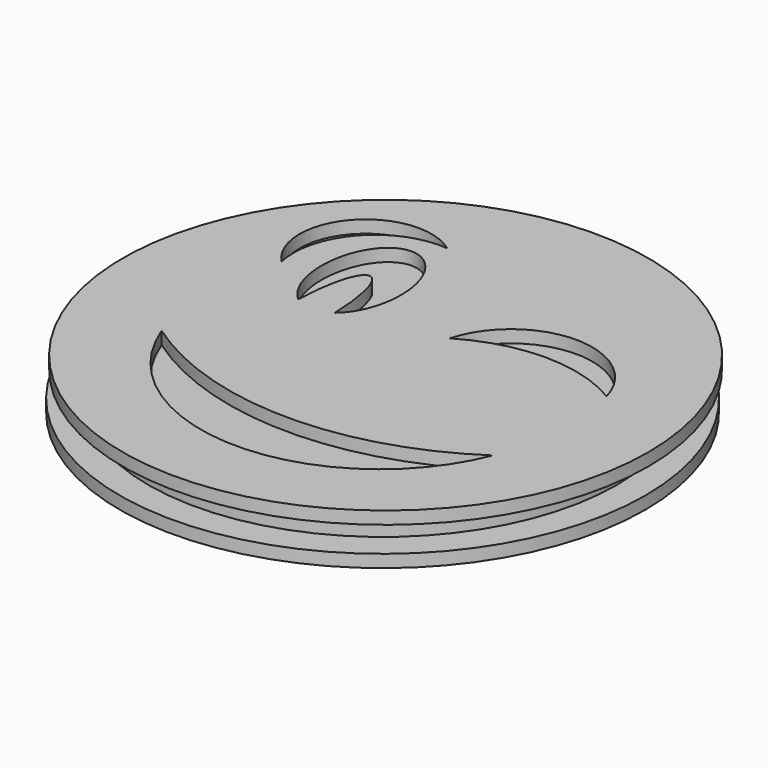
from build123d import *

# Parameters (mm, degrees)
F0_R     = 53.0157982363
F1_DEPTH = 2.54
F2_R     = 47.2560567117
F3_DEPTH = 5.08
F4_R     = 53.0157982363
F5_DEPTH = 2.54


with BuildPart() as f1:
    # F0 (on Top) → F1 (new body)
    with BuildSketch(Plane.XY):
        Circle(F0_R)
        with BuildLine():
            ThreePointArc((34.5963537693, -16.124624759), (0.7195010855, -38.8894264346), (-32.7556952834, -15.5380116776))
            ThreePointArc((-32.7556952834, -15.5380116776), (0.8294682353, -26.2635353639), (34.5963537693, -16.124624759))
        make_face(mode=Mode.SUBTRACT)
        with BuildLine():
            add(Edge.make_bspline(
                [(-15.2761812583, 6.2920888366), (-6.4745691616, 13.4173637556), (-12.7072304958, 25.5387976443), (-18.9398918301, 37.660231533), (-25.1725531643, 25.5387976443), (-31.4052144986, 13.4173637556), (-22.6036024019, 6.2920888366)],
                knots=[0.474035322, 0.474035322, 0.474035322, 2.2524068764, 2.2524068764, 4.0307784308, 4.0307784308, 5.8091499851, 5.8091499851, 5.8091499851], degree=2, weights=[1, 0.6300445274, 1, 0.6300445274, 1, 0.6300445274, 1]))
            add(Edge.make_bspline(
                [(-15.2761812583, 6.2920888366), (-15.5944365201, 19.5747613907), (-18.9398918301, 19.5747613907), (-22.2853471401, 19.5747613907), (-22.6036024019, 6.2920888366)],
                knots=[1.6660710276, 1.6660710276, 1.6660710276, 3.1415926536, 3.1415926536, 4.6171142796, 4.6171142796, 4.6171142796], degree=2, weights=[1, 0.7399765629, 1, 0.7399765629, 1]))
        make_face(mode=Mode.SUBTRACT)
        with BuildLine():
            ThreePointArc((-32.7556952834, 14.6841080859), (-33.0674816797, 32.6505443622), (-15.1981087402, 34.5414578915))
            ThreePointArc((-15.1981087402, 34.5414578915), (-29.0196103006, 29.0714740054), (-32.7556952834, 14.6841080859))
        make_face(mode=Mode.SUBTRACT)
        with BuildLine():
            ThreePointArc((4.2984438121, 10.7904156464), (20.1290514312, 22.8840550051), (35.9596590504, 10.7904156464))
            ThreePointArc((35.9596590504, 10.7904156464), (20.1290514312, 15.1713824312), (4.2984438121, 10.7904156464))
        make_face(mode=Mode.SUBTRACT)
    extrude(amount=F1_DEPTH)


with BuildPart() as f3:
    # F2 (on face) → F3 (new body)
    with BuildSketch(Plane.XY.offset(2.54)):
        Circle(F2_R)
    extrude(amount=F3_DEPTH)


with BuildPart() as f5:
    # F4 (on face) → F5 (new body)
    with BuildSketch(Plane.XY.offset(7.62)):
        with Locations((0.2872720361, 0.3989652069)):
            Circle(F4_R)
        with BuildLine():
            ThreePointArc((34.8836258054, -15.7256595521), (1.0067731216, -38.4904612278), (-32.4684232473, -15.1390464707))
            ThreePointArc((-32.4684232473, -15.1390464707), (1.1167402714, -25.864570157), (34.8836258054, -15.7256595521))
        make_face(mode=Mode.SUBTRACT)
        with BuildLine():
            add(Edge.make_bspline(
                [(-14.9889092222, 6.6910540435), (-6.1872971255, 13.8163289625), (-12.4199584598, 25.9377628512), (-18.652619794, 38.0591967398), (-24.8852811283, 25.9377628512), (-31.1179424625, 13.8163289625), (-22.3163303658, 6.6910540435)],
                knots=[0.474035322, 0.474035322, 0.474035322, 2.2524068764, 2.2524068764, 4.0307784308, 4.0307784308, 5.8091499851, 5.8091499851, 5.8091499851], degree=2, weights=[1, 0.6300445274, 1, 0.6300445274, 1, 0.6300445274, 1]))
            add(Edge.make_bspline(
                [(-14.9889092222, 6.6910540435), (-15.307164484, 19.9737265975), (-18.652619794, 19.9737265975), (-21.998075104, 19.9737265975), (-22.3163303658, 6.6910540435)],
                knots=[1.6660710276, 1.6660710276, 1.6660710276, 3.1415926536, 3.1415926536, 4.6171142796, 4.6171142796, 4.6171142796], degree=2, weights=[1, 0.7399765629, 1, 0.7399765629, 1]))
        make_face(mode=Mode.SUBTRACT)
        with BuildLine():
            ThreePointArc((-32.4684232473, 15.0830732928), (-32.7802096436, 33.0495095691), (-14.9108367041, 34.9404230983))
            ThreePointArc((-14.9108367041, 34.9404230983), (-28.7323382645, 29.4704392122), (-32.4684232473, 15.0830732928))
        make_face(mode=Mode.SUBTRACT)
        with BuildLine():
            ThreePointArc((4.5857158482, 11.1893808532), (20.4163234673, 23.283020212), (36.2469310864, 11.1893808532))
            ThreePointArc((36.2469310864, 11.1893808532), (20.4163234673, 15.570347638), (4.5857158482, 11.1893808532))
        make_face(mode=Mode.SUBTRACT)
    extrude(amount=F5_DEPTH)


solid = Compound([f1.part, f3.part, f5.part])
